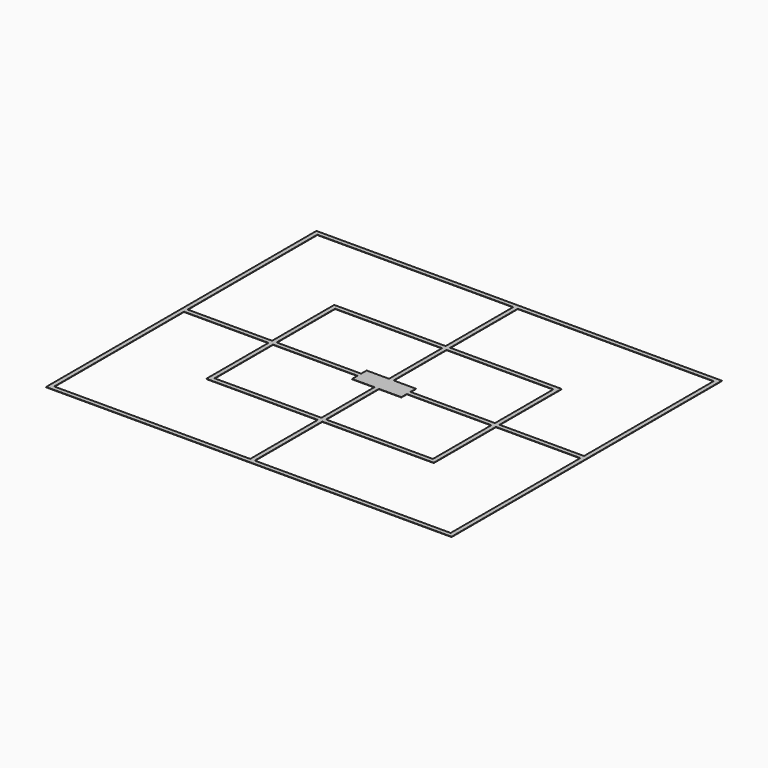
from build123d import *

# Parameters (mm, degrees)
F1_W     = 240
F1_H     = 200
F2_DEPTH = 0.2


with BuildPart() as f2:
    # F1 (on Top) → F2 (new body)
    with BuildSketch(Plane.XY):
        Rectangle(F1_W, F1_H)
        Polygon((-1.35, -97.3), (-117.3, -97.3), (-117.3, -1.35), (-67.3, -1.35), (-67.3, -47.3), (-1.35, -47.3), align=None, mode=Mode.SUBTRACT)
        Polygon((-1.35, -44.6), (-64.6, -44.6), (-64.6, -1.35), (-14.6, -1.35), (-14.6, -5.4), (-1.35, -5.4), align=None, mode=Mode.SUBTRACT)
        Polygon((117.3, -1.35), (117.3, -97.3), (1.35, -97.3), (1.35, -47.3), (67.3, -47.3), (67.3, -1.35), align=None, mode=Mode.SUBTRACT)
        Polygon((64.6, -1.35), (64.6, -44.6), (1.35, -44.6), (1.35, -5.4), (14.6, -5.4), (14.6, -1.35), align=None, mode=Mode.SUBTRACT)
        Polygon((-14.6, 5.4), (-14.6, 1.35), (-64.6, 1.35), (-64.6, 44.6), (-1.35, 44.6), (-1.35, 5.4), align=None, mode=Mode.SUBTRACT)
        Polygon((-117.3, 97.3), (-1.35, 97.3), (-1.35, 47.3), (-67.3, 47.3), (-67.3, 1.35), (-117.3, 1.35), align=None, mode=Mode.SUBTRACT)
        Polygon((1.35, 44.6), (64.6, 44.6), (64.6, 1.35), (14.6, 1.35), (14.6, 5.4), (1.35, 5.4), align=None, mode=Mode.SUBTRACT)
        Polygon((1.35, 97.3), (117.3, 97.3), (117.3, 1.35), (67.3, 1.35), (67.3, 47.3), (1.35, 47.3), align=None, mode=Mode.SUBTRACT)
        Rectangle(F1_W, F1_H)
        Polygon((-1.35, -97.3), (-117.3, -97.3), (-117.3, -1.35), (-67.3, -1.35), (-67.3, -47.3), (-1.35, -47.3), align=None, mode=Mode.SUBTRACT)
        Polygon((-1.35, -44.6), (-64.6, -44.6), (-64.6, -1.35), (-14.6, -1.35), (-14.6, -5.4), (-1.35, -5.4), align=None, mode=Mode.SUBTRACT)
        Polygon((117.3, -1.35), (117.3, -97.3), (1.35, -97.3), (1.35, -47.3), (67.3, -47.3), (67.3, -1.35), align=None, mode=Mode.SUBTRACT)
        Polygon((64.6, -1.35), (64.6, -44.6), (1.35, -44.6), (1.35, -5.4), (14.6, -5.4), (14.6, -1.35), align=None, mode=Mode.SUBTRACT)
        Polygon((-14.6, 5.4), (-14.6, 1.35), (-64.6, 1.35), (-64.6, 44.6), (-1.35, 44.6), (-1.35, 5.4), align=None, mode=Mode.SUBTRACT)
        Polygon((-117.3, 97.3), (-1.35, 97.3), (-1.35, 47.3), (-67.3, 47.3), (-67.3, 1.35), (-117.3, 1.35), align=None, mode=Mode.SUBTRACT)
        Polygon((1.35, 44.6), (64.6, 44.6), (64.6, 1.35), (14.6, 1.35), (14.6, 5.4), (1.35, 5.4), align=None, mode=Mode.SUBTRACT)
        Polygon((1.35, 97.3), (117.3, 97.3), (117.3, 1.35), (67.3, 1.35), (67.3, 47.3), (1.35, 47.3), align=None, mode=Mode.SUBTRACT)
        Rectangle(F1_W, F1_H)
        Polygon((-1.35, -97.3), (-117.3, -97.3), (-117.3, -1.35), (-67.3, -1.35), (-67.3, -47.3), (-1.35, -47.3), align=None, mode=Mode.SUBTRACT)
        Polygon((-1.35, -44.6), (-64.6, -44.6), (-64.6, -1.35), (-14.6, -1.35), (-14.6, -5.4), (-1.35, -5.4), align=None, mode=Mode.SUBTRACT)
        Polygon((117.3, -1.35), (117.3, -97.3), (1.35, -97.3), (1.35, -47.3), (67.3, -47.3), (67.3, -1.35), align=None, mode=Mode.SUBTRACT)
        Polygon((64.6, -1.35), (64.6, -44.6), (1.35, -44.6), (1.35, -5.4), (14.6, -5.4), (14.6, -1.35), align=None, mode=Mode.SUBTRACT)
        Polygon((-14.6, 5.4), (-14.6, 1.35), (-64.6, 1.35), (-64.6, 44.6), (-1.35, 44.6), (-1.35, 5.4), align=None, mode=Mode.SUBTRACT)
        Polygon((-117.3, 97.3), (-1.35, 97.3), (-1.35, 47.3), (-67.3, 47.3), (-67.3, 1.35), (-117.3, 1.35), align=None, mode=Mode.SUBTRACT)
        Polygon((1.35, 44.6), (64.6, 44.6), (64.6, 1.35), (14.6, 1.35), (14.6, 5.4), (1.35, 5.4), align=None, mode=Mode.SUBTRACT)
        Polygon((1.35, 97.3), (117.3, 97.3), (117.3, 1.35), (67.3, 1.35), (67.3, 47.3), (1.35, 47.3), align=None, mode=Mode.SUBTRACT)
    extrude(amount=F2_DEPTH)


solid = f2.part
